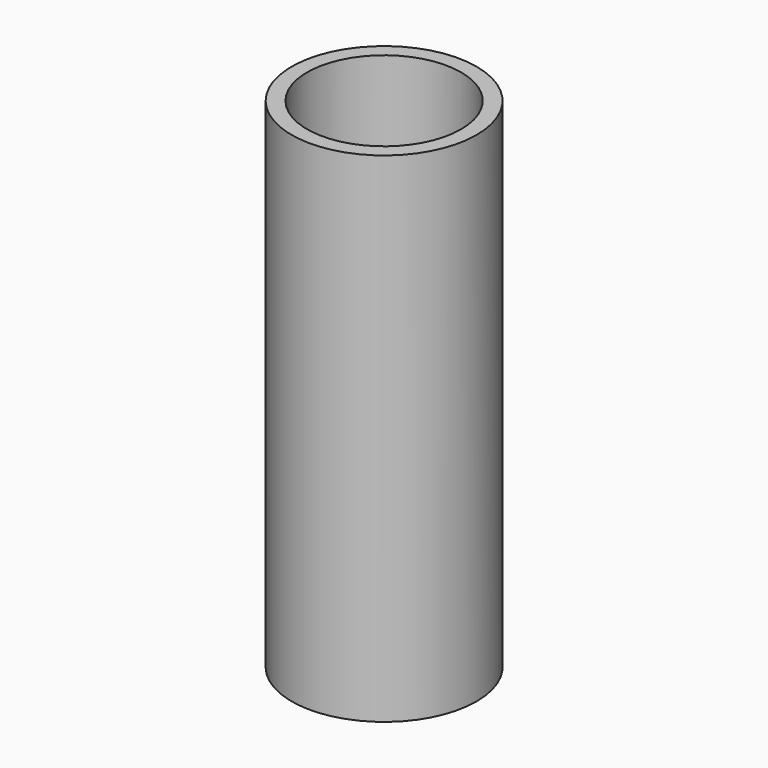
from build123d import *

# Parameters (mm, degrees)
F0_R     = 7.625
F0_R_2   = 6.625
F1_DEPTH = 20
F2_R     = 7.625
F2_R_2   = 6.625
F2_R_3   = 3.625
F3_DEPTH = 1.1
F4_R     = 7.625
F4_R_2   = 6.35
F5_DEPTH = 20


with BuildPart() as f1:
    # F0 (on Top) → F1 (new body)
    with BuildSketch(Plane.XY):
        Circle(F0_R)
        Circle(F0_R_2, mode=Mode.SUBTRACT)
    extrude(amount=F1_DEPTH)

    # F2 (on face) → F3 (join)
    with BuildSketch(Plane.XY.offset(20)):
        Circle(F2_R)
        Circle(F2_R_2, mode=Mode.SUBTRACT)
        Circle(F2_R_2)
        Circle(F2_R_3, mode=Mode.SUBTRACT)
    extrude(amount=F3_DEPTH)

    # F4 (on face) → F5 (join)
    with BuildSketch(Plane.XY.offset(21.1)):
        Circle(F4_R)
        Circle(F4_R_2, mode=Mode.SUBTRACT)
    extrude(amount=F5_DEPTH)


solid = f1.part
